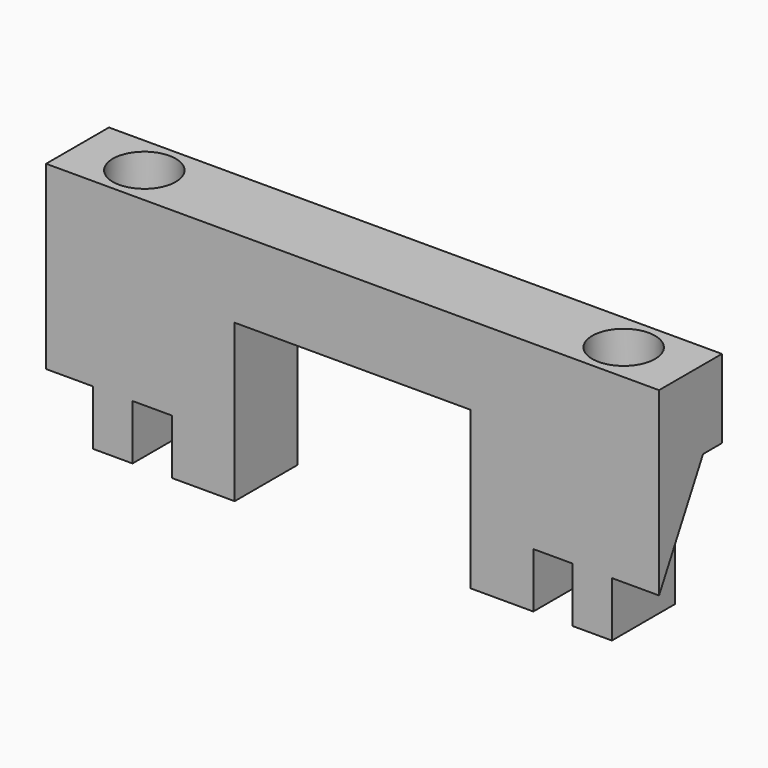
from build123d import *

# Parameters (mm, degrees)
SKETCH_W        = 78
SKETCH_H        = 10
PAD_DEPTH       = 30
POCKET_DEPTH    = 5
POCKET001_DEPTH = 174.334003
SKETCH003_R     = 2.25
POCKET002_DEPTH = 198.334003
SKETCH004_R     = 4
POCKET003_DEPTH = 5
SKETCH005_W     = 30
SKETCH005_H     = 10
POCKET004_DEPTH = 20


with BuildPart() as part:
    # Sketch → Pad (new body)
    with BuildSketch(Plane.XY):
        Rectangle(SKETCH_W, SKETCH_H)
    extrude(amount=PAD_DEPTH)

    # Sketch001 (on DatumPlane) → Pocket (cut)
    with BuildSketch(Plane.YZ.offset(23)):
        Polygon((-5, 0), (5, 0), (5, 20), (2, 20), (-5, 7), align=None)
    pocket = extrude(amount=POCKET_DEPTH, mode=Mode.SUBTRACT)

    # Sketch002 (on DatumPlane) → Pocket001 (cut, through all)
    with BuildSketch(Plane.YZ.offset(33)):
        Polygon((-5, 0), (5, 0), (5, 20), (2, 20), (-5, 7), align=None)
    pocket001 = extrude(amount=POCKET001_DEPTH, mode=Mode.SUBTRACT)

    # Sketch003 (on Face5 of Pocket001) → Pocket002 (cut, through all)
    with BuildSketch(Plane.XY.offset(30)):
        with Locations((30.5, 0)):
            Circle(SKETCH003_R)
    pocket002 = extrude(amount=-POCKET002_DEPTH, mode=Mode.SUBTRACT)

    # Sketch004 (on Face5 of Pocket002) → Pocket003 (cut)
    with BuildSketch(Plane.XY.offset(30)):
        with Locations((30.5, 0)):
            Circle(SKETCH004_R)
    pocket003 = extrude(amount=-POCKET003_DEPTH, mode=Mode.SUBTRACT)

    # Mirrored: Pocket003, Pocket002, Pocket001, Pocket across YZ
    add(pocket003.mirror(Plane.YZ), mode=Mode.SUBTRACT)
    add(pocket002.mirror(Plane.YZ), mode=Mode.SUBTRACT)
    add(pocket001.mirror(Plane.YZ), mode=Mode.SUBTRACT)
    add(pocket.mirror(Plane.YZ), mode=Mode.SUBTRACT)

    # Sketch005 (on Face12 of Mirrored) → Pocket004 (cut)
    with BuildSketch(Plane(origin=(0, 0, 0), x_dir=(1, 0, 0), z_dir=(0, 0, -1))):
        Rectangle(SKETCH005_W, SKETCH005_H)
    extrude(amount=-POCKET004_DEPTH, mode=Mode.SUBTRACT)


solid = part.part
